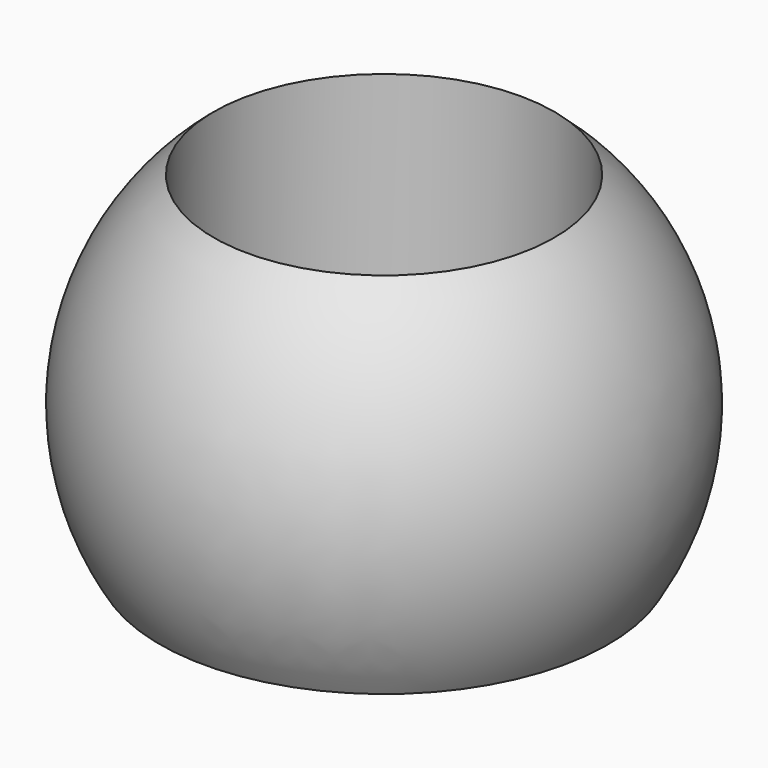
from build123d import *


with BuildPart() as f1:
    # F0 (on Right) → F1 (revolve)
    with BuildSketch(Plane.YZ):
        with BuildLine():
            Line((4.1, 0), (5.4, 0))
            ThreePointArc((5.4, 0), (6.271486, 4.336506), (4.1, 8.190002))
            Line((4.1, 8.190002), (4.1, 0))
        make_face()
    revolve(axis=Axis((0, 0, 4.845516), (0, 0, 1)))


solid = f1.part
